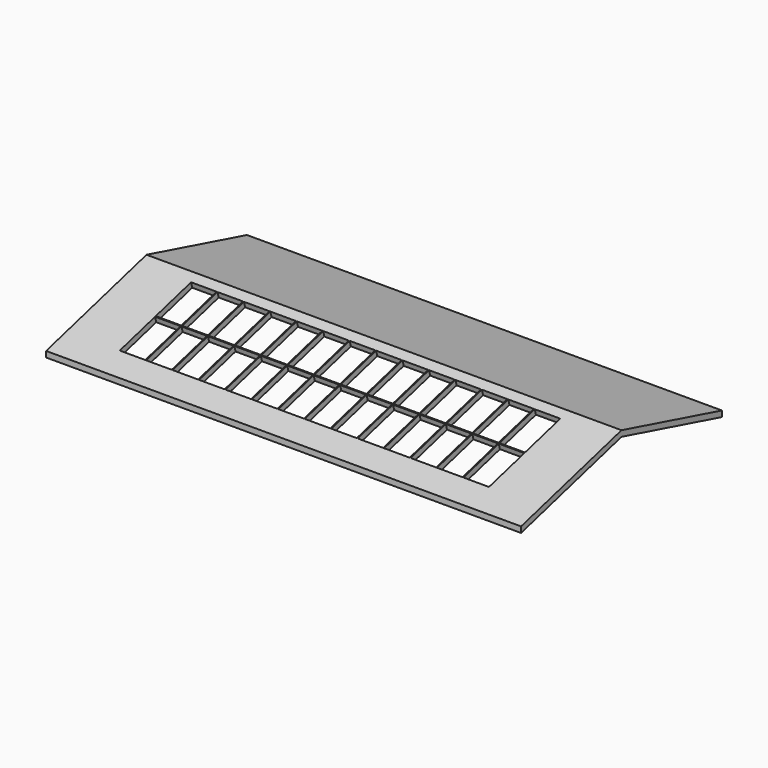
from build123d import *

# Parameters (mm, degrees)
F1_DEPTH = 269.24
F2_W     = 14.478
F2_H     = 25.908
F3_DEPTH = 25.4


with BuildPart() as f1:
    # F0 (on Right) → F1 (new body)
    with BuildSketch(Plane.YZ):
        Polygon((0, 3.302), (0, 0), (71.1500963645, 19.0646108623), (142.3001927289, 0), (142.3001927289, 3.302), (71.1500963645, 22.3666108623), align=None)
    extrude(amount=-F1_DEPTH)

    # F2 (on face) → F3 (cut)
    with BuildSketch(Plane(origin=(0, -0.8255, 3.0808079416), x_dir=(1, 0, 0), z_dir=(0, -0.2588190451, 0.9659258263))):
        with Locations((-232.029, 55.4646204869)):
            Rectangle(F2_W, F2_H)
        with Locations((-232.029, 29.0486204869)):
            Rectangle(F2_W, F2_H)
        with Locations((-217.043, 55.4646204869)):
            Rectangle(F2_W, F2_H)
        with Locations((-217.043, 29.0486204869)):
            Rectangle(F2_W, F2_H)
        with Locations((-202.057, 55.4646204869)):
            Rectangle(F2_W, F2_H)
        with Locations((-202.057, 29.0486204869)):
            Rectangle(F2_W, F2_H)
        with Locations((-187.071, 55.4646204869)):
            Rectangle(F2_W, F2_H)
        with Locations((-187.071, 29.0486204869)):
            Rectangle(F2_W, F2_H)
        with Locations((-172.085, 55.4646204869)):
            Rectangle(F2_W, F2_H)
        with Locations((-172.085, 29.0486204869)):
            Rectangle(F2_W, F2_H)
        with Locations((-157.099, 55.4646204869)):
            Rectangle(F2_W, F2_H)
        with Locations((-157.099, 29.0486204869)):
            Rectangle(F2_W, F2_H)
        with Locations((-142.113, 55.4646204869)):
            Rectangle(F2_W, F2_H)
        with Locations((-142.113, 29.0486204869)):
            Rectangle(F2_W, F2_H)
        with Locations((-127.127, 55.4646204869)):
            Rectangle(F2_W, F2_H)
        with Locations((-127.127, 29.0486204869)):
            Rectangle(F2_W, F2_H)
        with Locations((-112.141, 55.4646204869)):
            Rectangle(F2_W, F2_H)
        with Locations((-112.141, 29.0486204869)):
            Rectangle(F2_W, F2_H)
        with Locations((-97.155, 55.4646204869)):
            Rectangle(F2_W, F2_H)
        with Locations((-97.155, 29.0486204869)):
            Rectangle(F2_W, F2_H)
        with Locations((-82.169, 55.4646204869)):
            Rectangle(F2_W, F2_H)
        with Locations((-82.169, 29.0486204869)):
            Rectangle(F2_W, F2_H)
        with Locations((-67.183, 55.4646204869)):
            Rectangle(F2_W, F2_H)
        with Locations((-67.183, 29.0486204869)):
            Rectangle(F2_W, F2_H)
        with Locations((-52.197, 55.4646204869)):
            Rectangle(F2_W, F2_H)
        with Locations((-52.197, 29.0486204869)):
            Rectangle(F2_W, F2_H)
        with Locations((-37.211, 55.4646204869)):
            Rectangle(F2_W, F2_H)
        with Locations((-37.211, 29.0486204869)):
            Rectangle(F2_W, F2_H)
    extrude(amount=-F3_DEPTH, mode=Mode.SUBTRACT)


solid = f1.part
